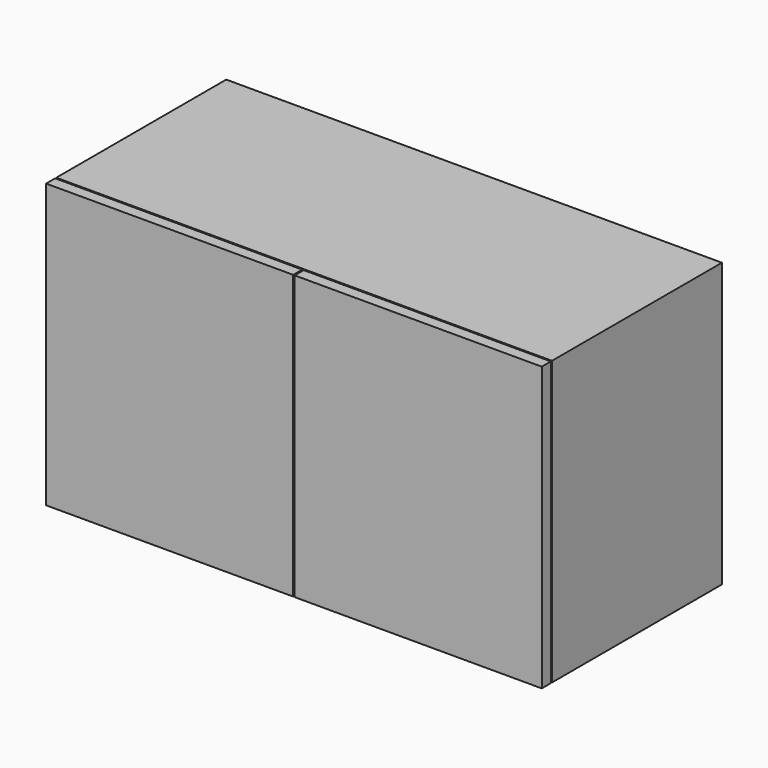
from build123d import *

# Parameters (mm, degrees)
F0_W     = 700
F0_H     = 400
F1_DEPTH = 300
F2_T     = -16
F3_DEPTH = 11
F5_W     = 700
F5_H     = 400
F6_DEPTH = 16
F7_W     = 2
F7_H     = 400
F8_DEPTH = 16


with BuildPart() as f1:
    # F0 (on Front) → F1 (new body)
    with BuildSketch(Plane.XZ):
        Rectangle(F0_W, F0_H)
    extrude(amount=F1_DEPTH)

    # F2
    f2_openings = [f1.faces().sort_by_distance(p)[0] for p in [
        (0, -300, 0),
    ]]
    offset(amount=F2_T, openings=f2_openings)

    # F3 (cut): a face of the model
    f3_faces = [f1.faces().sort_by_distance(p)[0] for p in [
        (0, -16, 0),
    ]]
    extrude(f3_faces, amount=-F3_DEPTH, mode=Mode.SUBTRACT)


with BuildPart() as f6:
    # F5 (on offset) → F6 (new body)
    with BuildSketch(Plane.XZ.offset(302)):
        Rectangle(F5_W, F5_H)
    extrude(amount=F6_DEPTH)

    # F7 (on face) → F8 (cut, through all)
    with BuildSketch(Plane.XZ.offset(318)):
        Rectangle(F7_W, F7_H)
    extrude(amount=-F8_DEPTH, mode=Mode.SUBTRACT)


solid = Compound([f1.part, f6.part])
